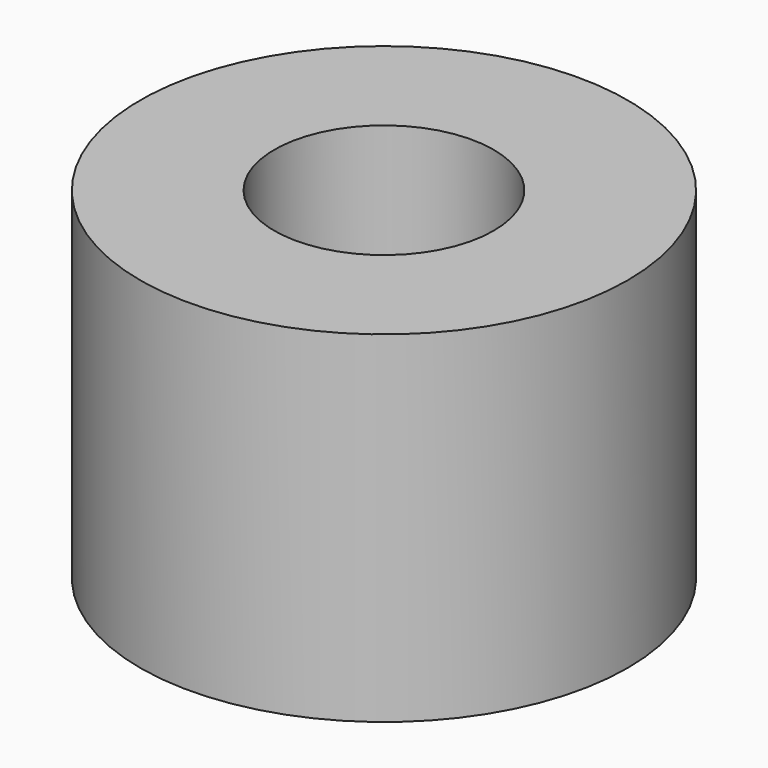
from build123d import *

# Parameters (mm, degrees)
SKETCH_R     = 5
PAD_DEPTH    = 7
SKETCH001_R  = 2.25
POCKET_DEPTH = 7.001


with BuildPart() as part:
    # Sketch → Pad (new body)
    with BuildSketch(Plane.XY):
        Circle(SKETCH_R)
    extrude(amount=PAD_DEPTH)

    # Sketch001 → Pocket (cut, through all)
    with BuildSketch(Plane.XY.offset(7)):
        Circle(SKETCH001_R)
    extrude(amount=-POCKET_DEPTH, mode=Mode.SUBTRACT)


solid = part.part
